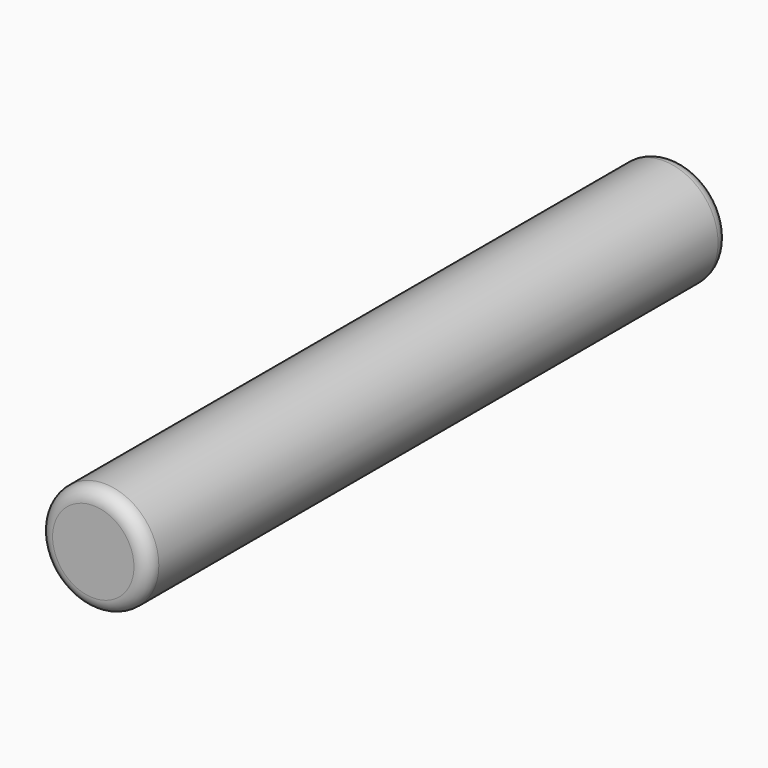
from build123d import *

# Parameters (mm, degrees)
F0_R     = 9.525
F1_DEPTH = 63.5
F2_R     = 2.413
F3_R     = 2.413


with BuildPart() as f1:
    # F0 (on Front) → F1 (new body, symmetric)
    with BuildSketch(Plane.XZ):
        Circle(F0_R)
    extrude(amount=F1_DEPTH, both=True)

    # F2
    f2_edges = [f1.edges().sort_by_distance(p)[0] for p in [
        (-9.525, -63.5, 0),
    ]]
    fillet(f2_edges, radius=F2_R)

    # F3
    f3_edges = [f1.edges().sort_by_distance(p)[0] for p in [
        (-9.525, 63.5, 0),
    ]]
    fillet(f3_edges, radius=F3_R)


solid = f1.part
